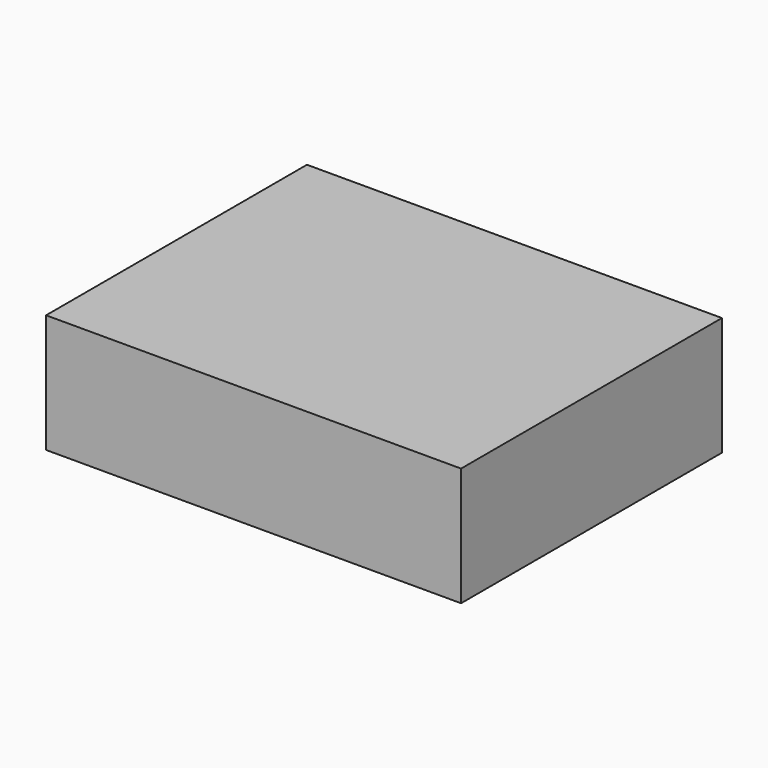
from build123d import *

# Parameters (mm, degrees)
F0_W     = 177.8
F0_H     = 139.7
F1_DEPTH = 50.8
F2_W     = 157.480002
F2_H     = 119.380002
F3_DEPTH = 45.72


with BuildPart() as f1:
    # F0 (on Top) → F1 (new body)
    with BuildSketch(Plane.XY):
        Rectangle(F0_W, F0_H)
    extrude(amount=F1_DEPTH)

    # F2 (on face) → F3 (cut)
    with BuildSketch(Plane(origin=(0, 0, 0), x_dir=(1, 0, 0), z_dir=(0, 0, -1))):
        Rectangle(F2_W, F2_H)
    extrude(amount=-F3_DEPTH, mode=Mode.SUBTRACT)


solid = f1.part
